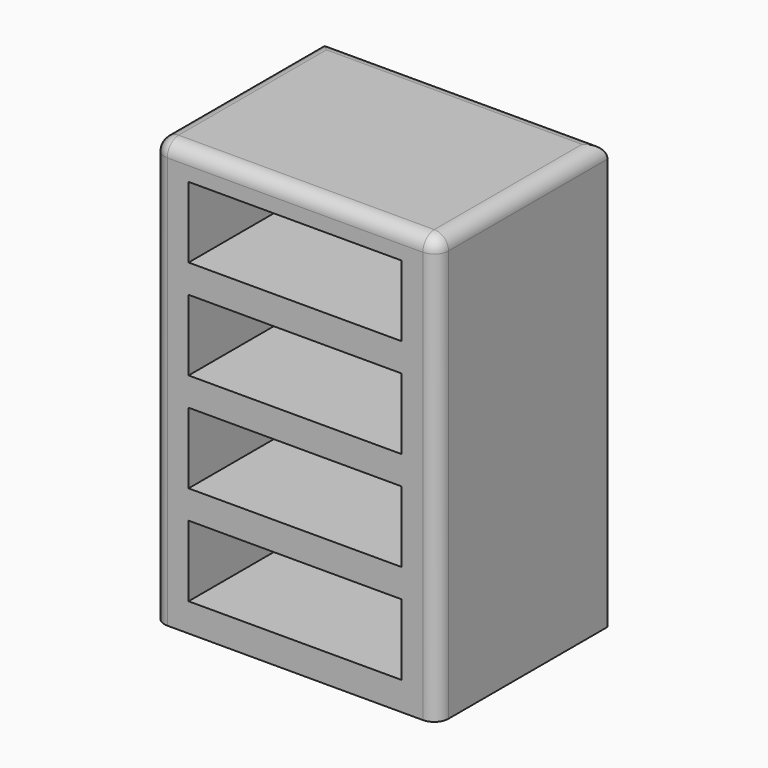
from build123d import *

# Parameters (mm, degrees)
F0_W     = 101.6
F0_H     = 76.2
F1_DEPTH = 152.4
F2_W     = 76.2
F2_H     = 25.4
F3_DEPTH = 50.8
F4_R     = 5.08


with BuildPart() as f1:
    # F0 (on Top) → F1 (new body)
    with BuildSketch(Plane.XY):
        with Locations((50.8, 38.1)):
            Rectangle(F0_W, F0_H)
    extrude(amount=F1_DEPTH)

    # F2 (on face) → F3 (cut)
    with BuildSketch(Plane.XZ):
        with Locations((50.8, 129.54)):
            Rectangle(F2_W, F2_H)
        with Locations((50.8, 93.98)):
            Rectangle(F2_W, F2_H)
        with Locations((50.8, 58.42)):
            Rectangle(F2_W, F2_H)
        with Locations((50.8, 22.86)):
            Rectangle(F2_W, F2_H)
    extrude(amount=-F3_DEPTH, mode=Mode.SUBTRACT)

    # F4
    f4_edges = [f1.edges().sort_by_distance(p)[0] for p in [
        (101.6, 38.1, 152.4),
        (0, 38.1, 152.4),
        (50.8, 0, 152.4),
        (50.8, 76.2, 152.4),
        (101.6, 0, 76.2),
        (0, 0, 76.2),
    ]]
    fillet(f4_edges, radius=F4_R)


solid = f1.part
